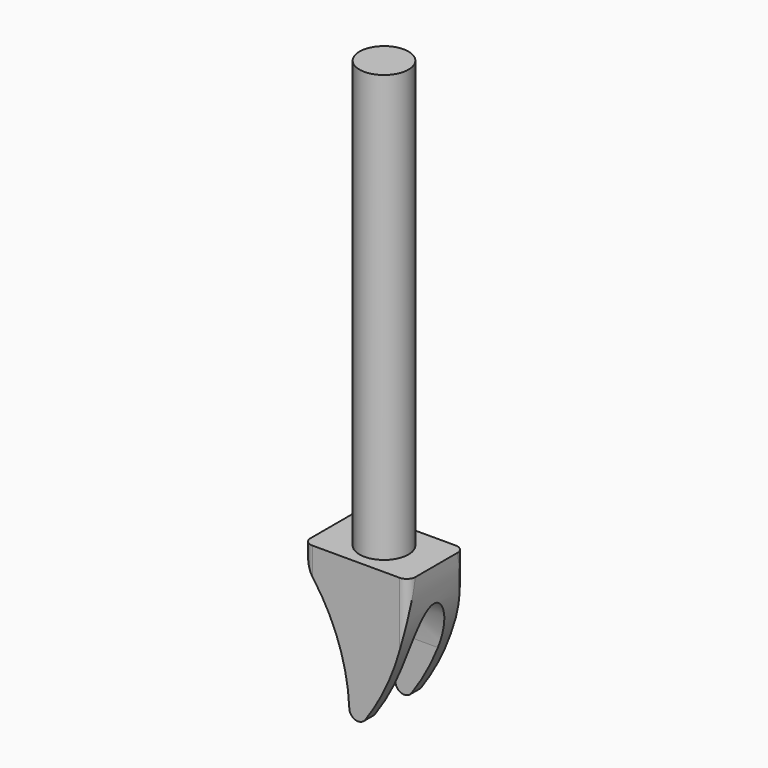
from build123d import *

# Parameters (mm, degrees)
F0_R     = 14
F1_DEPTH = 244
F2_W     = 60
F2_H     = 40
F3_DEPTH = 80
F4_R     = 5
F6_DEPTH = 40
F8_DEPTH = 35


with BuildPart() as f1:
    # F0 (on Top) → F1 (new body)
    with BuildSketch(Plane.XY):
        Circle(F0_R)
    extrude(amount=F1_DEPTH)

    # F2 (on Top) → F3 (join)
    with BuildSketch(Plane.XY):
        Rectangle(F2_W, F2_H)
    extrude(amount=-F3_DEPTH)

    # F4
    f4_edges = [f1.edges().sort_by_distance(p)[0] for p in [
        (30, -20, -40),
        (-30, -20, -40),
        (30, 20, -40),
        (-30, 20, -40),
    ]]
    fillet(f4_edges, radius=F4_R)

    # F5 (on Front) → F6 (cut, symmetric)
    with BuildSketch(Plane.XZ):
        with BuildLine():
            Line((-30, 0), (-30, -85))
            Line((-30, -85), (30, -85))
            Line((30, -85), (30, 0))
            ThreePointArc((30, 0), (23.6684739344, -40.85858313), (5.2677953275, -77.8846153846))
            ThreePointArc((5.2677953275, -77.8846153846), (-0.2236501523, -79.7978199094), (-3.8113000271, -75.2212389381))
            ThreePointArc((-3.8113000271, -75.2212389381), (-9.8768127885, -44.0150908016), (-24.7651593513, -15.9268145426))
            ThreePointArc((-24.7651593513, -15.9268145426), (-28.6577337776, -8.3825261421), (-30, 0))
        make_face()
    extrude(amount=F6_DEPTH, both=True, mode=Mode.SUBTRACT)

    # F7 (on Right) → F8 (cut, symmetric)
    with BuildSketch(Plane.YZ):
        with BuildLine():
            Line((13, -80), (13, -50))
            add(Edge.make_bspline(
                [(13, -50), (13, -20), (0, -20), (-13, -20), (-13, -50)],
                knots=[1.5707963268, 1.5707963268, 1.5707963268, 3.1415926536, 3.1415926536, 4.7123889804, 4.7123889804, 4.7123889804], degree=2, weights=[1, 0.7071067812, 1, 0.7071067812, 1]))
            Line((-13, -50), (-13, -80))
            Line((-13, -80), (13, -80))
        make_face()
    extrude(amount=F8_DEPTH, both=True, mode=Mode.SUBTRACT)


solid = f1.part
